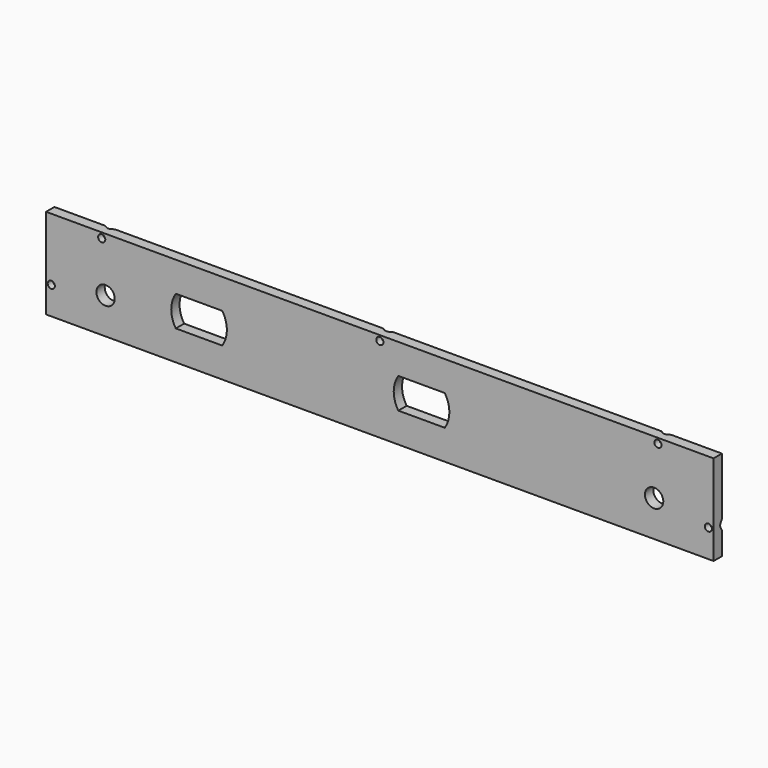
from build123d import *

# Parameters (mm, degrees)
F0_W           = 304.8
F0_H           = 41.275
F1_DEPTH       = 4.7625
F3_R           = 4.191
F4_DEPTH       = 4.7635
F5_D           = 3.2639
F5_DEPTH       = 14.605
F5_CSINK_D     = 6.477
F5_CSINK_ANGLE = 82
F5_TIP         = 0.9805744872
F7_DEPTH       = 25.4


with BuildPart() as f1:
    # F0 (on Front) → F1 (new body)
    with BuildSketch(Plane.XZ):
        with Locations((33.2768968371, 36.1280379981)):
            Rectangle(F0_W, F0_H)
    extrude(amount=F1_DEPTH)

    # F3 (on face) → F4 (cut, through all)
    with BuildSketch(Plane(origin=(0, 0, 0), x_dir=(-1, 0, 0), z_dir=(0, 1, 0))):
        with Locations((91.9631031629, 31.9930379981)):
            Circle(F3_R)
        with Locations((-158.5168968371, 31.9930379981)):
            Circle(F3_R)
    extrude(amount=-F4_DEPTH, mode=Mode.SUBTRACT)

    # F5
    with Locations(Plane(origin=(0, 0, 0), x_dir=(-1, 0, 0), z_dir=(0, 1, 0))):
        with Locations((-183.2956468371, 28.1905379981), (-160.2768968371, 54.3842879981), (-33.2768968371, 54.3842879981), (93.7231031629, 54.3842879981), (116.7418531629, 28.1905379981)):
            CounterSinkHole(F5_D / 2, F5_CSINK_D / 2, depth=F5_DEPTH, counter_sink_angle=F5_CSINK_ANGLE)
            with Locations((0, 0, -(F5_DEPTH + F5_TIP / 2))):  # 118° drill point
                Cone(0, F5_D / 2, F5_TIP, mode=Mode.SUBTRACT)

    # F6 (on face) → F7 (cut)
    with BuildSketch(Plane.XZ.offset(4.7625)):
        with BuildLine():
            Line((-38.6665120517, 43.1130379981), (-59.879694274, 43.1130379981))
            ThreePointArc((-59.879694274, 43.1130379981), (-61.9731031629, 36.1280379981), (-59.879694274, 29.1430379981))
            Line((-59.879694274, 29.1430379981), (-38.6665120517, 29.1430379981))
            ThreePointArc((-38.6665120517, 29.1430379981), (-36.5731031629, 36.1280379981), (-38.6665120517, 43.1130379981))
        make_face()
        with BuildLine():
            ThreePointArc((62.9334879483, 29.1430379981), (65.0268968371, 36.1280379981), (62.9334879483, 43.1130379981))
            Line((62.9334879483, 43.1130379981), (41.720305726, 43.1130379981))
            ThreePointArc((41.720305726, 43.1130379981), (39.6268968371, 36.1280379981), (41.720305726, 29.1430379981))
            Line((41.720305726, 29.1430379981), (62.9334879483, 29.1430379981))
        make_face()
    extrude(amount=-F7_DEPTH, mode=Mode.SUBTRACT)


solid = f1.part
